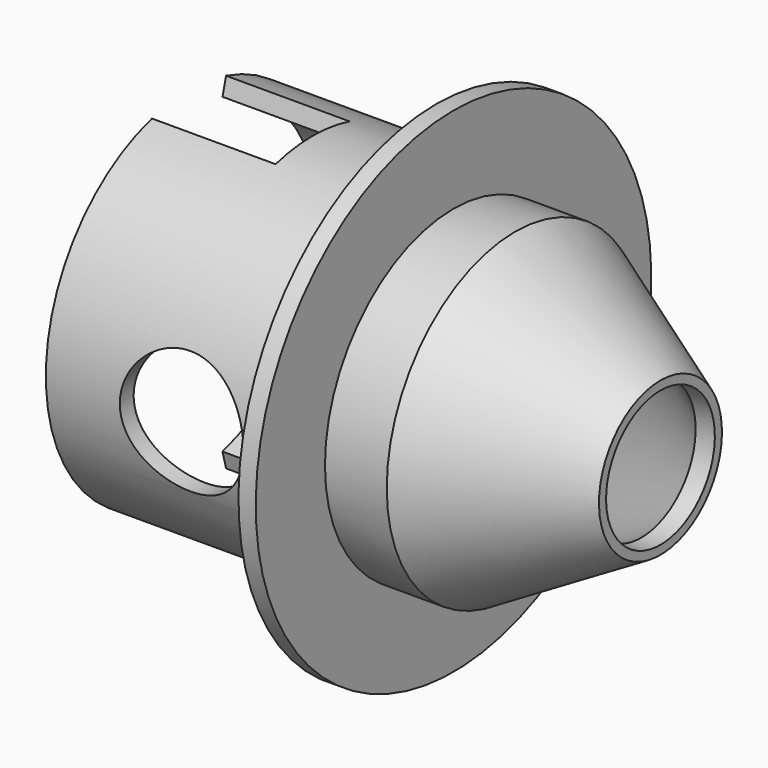
from build123d import *

# Parameters (mm, degrees)
F3_DEPTH = 6.35
F5_D     = 6.35
F6_D     = 6.35


with BuildPart() as f1:
    # F0 (on Front) → F1 (revolve)
    with BuildSketch(Plane.XZ):
        Polygon((-12.185892, 12.7), (-13.074892, 12.7), (-13.074892, 9.1948), (-25.774892, 9.1948), (-25.774892, 8.3058), (-13.074892, 8.3058), (-13.074892, 7.366), (-9.249099, 7.366), (-2.54, 3.4925), (-1.551914, 3.4925), (-1.551914, 3.948557), (-9.010892, 8.255), (-12.185892, 8.255), align=None)
        Polygon((-12.185892, 12.7), (-13.074892, 12.7), (-13.074892, 9.1948), (-25.774892, 9.1948), (-25.774892, 8.3058), (-13.074892, 8.3058), (-13.074892, 7.366), (-9.249099, 7.366), (-2.54, 3.4925), (-1.551914, 3.4925), (-1.551914, 3.948557), (-9.010892, 8.255), (-12.185892, 8.255), align=None)
        Polygon((-12.185892, 12.7), (-13.074892, 12.7), (-13.074892, 9.1948), (-25.774892, 9.1948), (-25.774892, 8.3058), (-13.074892, 8.3058), (-13.074892, 7.366), (-9.249099, 7.366), (-2.54, 3.4925), (-1.551914, 3.4925), (-1.551914, 3.948557), (-9.010892, 8.255), (-12.185892, 8.255), align=None)
    revolve(axis=Axis((-0.259, 0, 0), (1, 0, 0)))

    # F2 (on face) → F3 (cut)
    with BuildSketch(Plane(origin=(-25.774892, 0, 0), x_dir=(0, -1, 0), z_dir=(-1, 0, 0))):
        with BuildLine():
            Line((2.149699, 8.022787), (2.379789, 8.881495))
            ThreePointArc((2.379789, 8.881495), (0, 9.1948), (-2.379789, 8.881495))
            Line((-2.379789, 8.881495), (-2.149699, 8.022787))
            ThreePointArc((-2.149699, 8.022787), (0, 8.3058), (2.149699, 8.022787))
        make_face()
        with BuildLine():
            Line((-2.149699, -8.022787), (-2.379789, -8.881495))
            ThreePointArc((-2.379789, -8.881495), (0, -9.1948), (2.379789, -8.881495))
            Line((2.379789, -8.881495), (2.149699, -8.022787))
            ThreePointArc((2.149699, -8.022787), (0, -8.3058), (-2.149699, -8.022787))
        make_face()
    extrude(amount=-F3_DEPTH, mode=Mode.SUBTRACT)

    # F5 (through all)
    with Locations(Plane.XZ):
        with Locations((-18.799923, 0)):
            Hole(F5_D / 2)

    # F6 (through all)
    with Locations(Plane(origin=(0, 0, 0), x_dir=(1, 0, 0), z_dir=(0, 1, 0))):
        with Locations((-18.799923, 0)):
            Hole(F6_D / 2)


solid = f1.part
